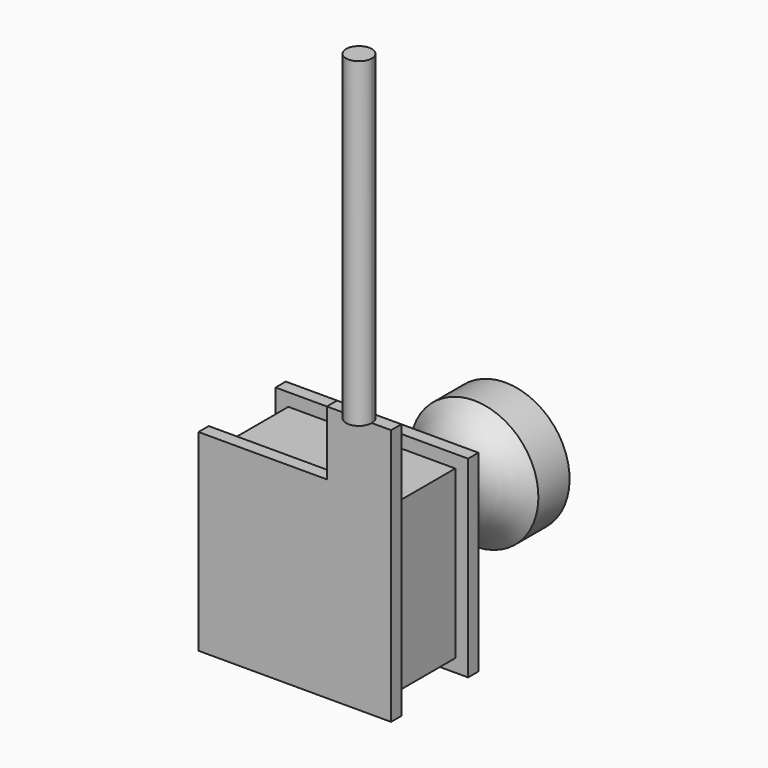
from build123d import *

# Parameters (mm, degrees)
F0_W      = 15
F0_H      = 8.5
F1_DEPTH  = 15
F2_W      = 15
F2_H      = 6.5
F3_DEPTH  = 1
F4_W      = 6.5
F4_H      = 14
F5_DEPTH  = 1
F6_W      = 14
F6_H      = 6.5
F7_DEPTH  = 1
F8_W      = 6.5
F8_H      = 13
F9_DEPTH  = 1
F10_W     = 5
F10_H     = 1
F11_DEPTH = 5
F12_W     = 9
F12_H     = 9
F13_DEPTH = 2
F17_DEPTH = 25


with BuildPart() as f1:
    # F0 (on Top) → F1 (new body)
    with BuildSketch(Plane.XY):
        with Locations((0, -4.25)):
            Rectangle(F0_W, F0_H)
    extrude(amount=F1_DEPTH)

    # F2 (on face) → F3 (cut)
    with BuildSketch(Plane.XY.offset(15)):
        with Locations((0, -4.25)):
            Rectangle(F2_W, F2_H)
    extrude(amount=-F3_DEPTH, mode=Mode.SUBTRACT)

    # F4 (on face) → F5 (cut)
    with BuildSketch(Plane.YZ.offset(7.5)):
        with Locations((-4.25, 7)):
            Rectangle(F4_W, F4_H)
    extrude(amount=-F5_DEPTH, mode=Mode.SUBTRACT)

    # F6 (on face) → F7 (cut)
    with BuildSketch(Plane(origin=(0, 0, 0), x_dir=(1, 0, 0), z_dir=(0, 0, -1))):
        with Locations((-0.5, 4.25)):
            Rectangle(F6_W, F6_H)
    extrude(amount=-F7_DEPTH, mode=Mode.SUBTRACT)

    # F8 (on face) → F9 (cut)
    with BuildSketch(Plane(origin=(-7.5, 0, 0), x_dir=(0, -1, 0), z_dir=(-1, 0, 0))):
        with Locations((4.25, 7.5)):
            Rectangle(F8_W, F8_H)
    extrude(amount=-F9_DEPTH, mode=Mode.SUBTRACT)

    # F10 (on face) → F11 (join)
    with BuildSketch(Plane.XY.offset(15)):
        with Locations((5, -8)):
            Rectangle(F10_W, F10_H)
        with Locations((5, -8)):
            Rectangle(F10_W, F10_H)
    extrude(amount=F11_DEPTH)

    # F12 (on face) → F13 (join)
    with BuildSketch(Plane(origin=(0, 0, 0), x_dir=(-1, 0, 0), z_dir=(0, 1, 0))):
        with Locations((0, 7.5)):
            Rectangle(F12_W, F12_H)
    extrude(amount=F13_DEPTH)

    # F14 (on Right) → F15 (revolve)
    with BuildSketch(Plane.YZ):
        with BuildLine():
            ThreePointArc((4.196024, 11.486574), (3.124753, 11.857664), (2, 12))
            Line((2, 12), (2, 7.5))
            Line((2, 7.5), (12, 7.5))
            Line((12, 7.5), (12, 12.5))
            Line((12, 12.5), (8.965219, 12.5))
            ThreePointArc((8.965219, 12.5), (6.750409, 11.194264), (4.196024, 11.486574))
        make_face()
    revolve(axis=Axis((0, 7, 7.5), (0, 1, 0)))

    # F16 (on face) → F17 (join)
    with BuildSketch(Plane.XY.offset(20)):
        with BuildLine():
            Line((4, -8.5), (6, -8.5))
            ThreePointArc((6, -8.5), (5.707107, -7.792893), (5, -7.5))
            ThreePointArc((5, -7.5), (4.292893, -7.792893), (4, -8.5))
        make_face()
        with BuildLine():
            ThreePointArc((4, -8.5), (5, -9.5), (6, -8.5))
            Line((6, -8.5), (4, -8.5))
        make_face()
    extrude(amount=F17_DEPTH)


solid = f1.part
